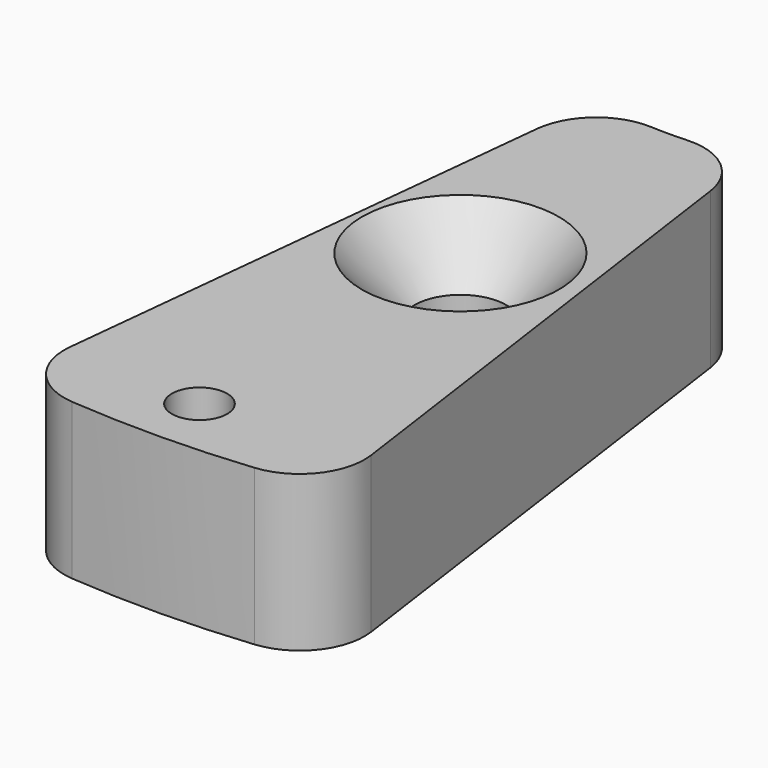
from build123d import *

# Parameters (mm, degrees)
F1_DEPTH       = 7.62
F2_R           = 3.175
F4_D           = 2.7051
F6_D           = 4.4958
F6_CSINK_D     = 9.652
F6_CSINK_ANGLE = 82
F7_R           = 1.651
F8_DEPTH       = 7.621
F9_R           = 1.651
F10_DEPTH      = 1.27


with BuildPart() as f1:
    # F0 (on Top) → F1 (new body)
    with BuildSketch(Plane.XY):
        with BuildLine():
            Line((8.2333683595, -48.8408900969), (3.81, -17.3669888006))
            ThreePointArc((3.81, -17.3669888006), (0, -17.78), (-3.81, -17.3669888006))
            Line((-3.81, -17.3669888006), (-7.1361534431, -49.0132248892))
            ThreePointArc((-7.1361534431, -49.0132248892), (0.5553332003, -49.5268866883), (8.2333683595, -48.8408900969))
        make_face()
    extrude(amount=F1_DEPTH)

    # F2
    f2_edges = [f1.edges().sort_by_distance(p)[0] for p in [
        (-7.136153, -49.013225, 3.81),
        (-3.81, -17.366989, 3.81),
        (8.233368, -48.84089, 3.81),
        (3.81, -17.366989, 3.81),
    ]]
    fillet(f2_edges, radius=F2_R)

    # F4 (through all)
    with Locations(Plane.XY.offset(7.62)):
        with Locations((0, -46.4566)):
            Hole(F4_D / 2)

    # F6 (through all)
    with Locations(Plane.XY.offset(7.62)):
        with Locations((0, -30.48)):
            CounterSinkHole(F6_D / 2, F6_CSINK_D / 2, counter_sink_angle=F6_CSINK_ANGLE)

    # F7 (on face) → F8 (cut, through all)
    with BuildSketch(Plane(origin=(0, 0, 0), x_dir=(1, 0, 0), z_dir=(0, 0, -1))):
        with Locations((0, 22.86)):
            Circle(F7_R)
    extrude(amount=-F8_DEPTH, mode=Mode.SUBTRACT)

    # F9 (on face) → F10 (join)
    with BuildSketch(Plane.XY.offset(7.62)):
        with Locations((0, -22.86)):
            Circle(F9_R)
    extrude(amount=-F10_DEPTH)


solid = f1.part
